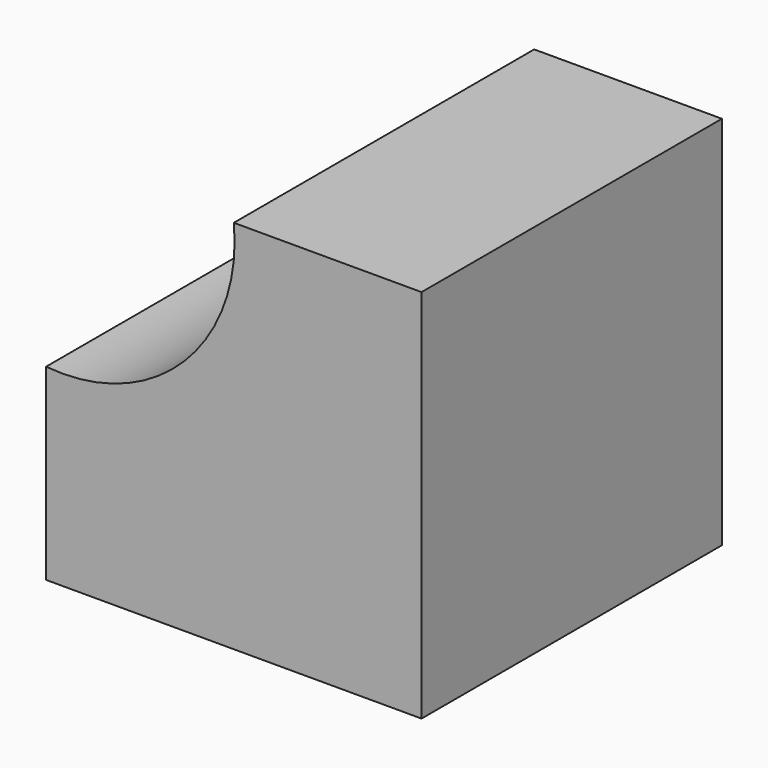
from build123d import *

# Parameters (mm, degrees)
F0_W     = 50.8
F0_H     = 50.8
F1_DEPTH = 50.8
F4_DEPTH = 50.8


with BuildPart() as f1:
    # F0 (on Front) → F1 (new body)
    with BuildSketch(Plane.XZ):
        with Locations((25.4, 25.4)):
            Rectangle(F0_W, F0_H)
    extrude(amount=F1_DEPTH)

    # F2 (on face) → F4 (cut)
    with BuildSketch(Plane.XZ.offset(50.8)):
        with BuildLine():
            Line((0, 50.8), (0, 25.4))
            ThreePointArc((0, 25.4), (18.682128, 32.117872), (25.4, 50.8))
            Line((25.4, 50.8), (0, 50.8))
        make_face()
    extrude(amount=-F4_DEPTH, mode=Mode.SUBTRACT)


solid = f1.part
